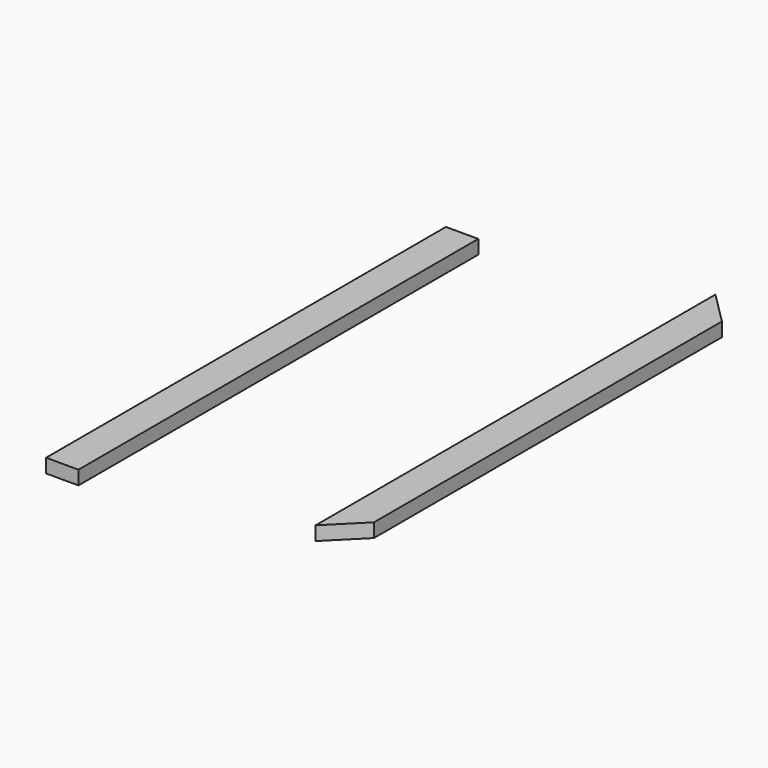
from build123d import *

# Parameters (mm, degrees)
F0_W     = 88.9
F0_H     = 38.1
F1_DEPTH = 1371.6
F3_DEPTH = 38.1
F4_W     = 88.9
F4_H     = 38.1
F5_DEPTH = 1371.6


with BuildPart() as f1:
    # F0 (on Front) → F1 (new body)
    with BuildSketch(Plane.XZ):
        with Locations((44.45, 19.05)):
            Rectangle(F0_W, F0_H)
    extrude(amount=F1_DEPTH)

    # F2 (on face) → F3 (cut, through all)
    with BuildSketch(Plane.XY.offset(38.1)):
        Polygon((88.9, -1282.7), (0, -1371.6), (88.9, -1371.6), align=None)
        Polygon((0, 0), (88.9, -88.9), (88.9, 0), align=None)
    extrude(amount=-F3_DEPTH, mode=Mode.SUBTRACT)


with BuildPart() as f5:
    # F4 (on Front) → F5 (new body)
    with BuildSketch(Plane.XZ):
        with Locations((-695.277959, -58.178241)):
            Rectangle(F4_W, F4_H)
    extrude(amount=F5_DEPTH)


solid = Compound([f1.part, f5.part])
